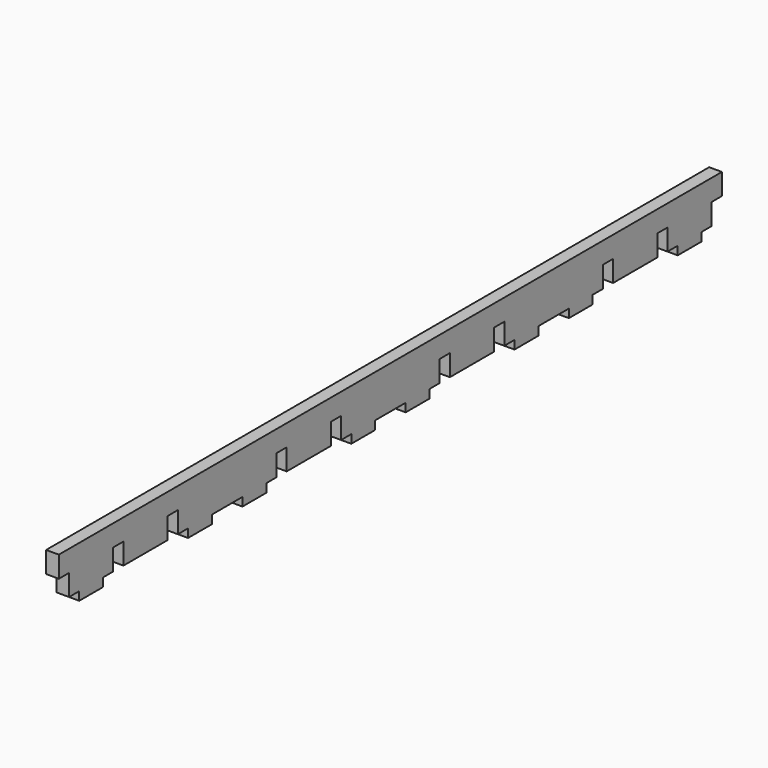
from build123d import *

# Parameters (mm, degrees)
F0_W     = 3
F0_H     = 5
F0_W_2   = 1.5
F1_DEPTH = 3


with BuildPart() as f1:
    # F0 (on Right) → F1 (new body)
    with BuildSketch(Plane.YZ):
        Polygon((1.5, 5), (1.5, 0), (4.5, 0), (4.5, -2), (11.5, -2), (11.5, 0), (14.5, 0), (14.5, 5), (14.5, 10), (11.5, 10), (1.5, 10), align=None)
        with Locations((16, 7.5)):
            Rectangle(F0_W, F0_H)
        Polygon((20.5, 10), (17.5, 10), (17.5, 5), (17.5, 0), (30.5, 0), (30.5, 5), (30.5, 10), align=None)
        with Locations((32, 7.5)):
            Rectangle(F0_W, F0_H)
        Polygon((33.5, 5), (33.5, 0), (36.5, 0), (36.5, -2), (43.5, -2), (43.5, 0), (48, 0), (52.5, 0), (52.5, -2), (59.5, -2), (59.5, 0), (62.5, 0), (62.5, 5), (62.5, 10), (33.5, 10), align=None)
        with Locations((64, 7.5)):
            Rectangle(F0_W, F0_H)
        Polygon((78.5, 10), (65.5, 10), (65.5, 5), (65.5, 0), (78.5, 0), (78.5, 5), align=None)
        with Locations((80, 7.5)):
            Rectangle(F0_W, F0_H)
        Polygon((110.5, 10), (81.5, 10), (81.5, 5), (81.5, 0), (84.5, 0), (84.5, -2), (91.5, -2), (91.5, 0), (96, 0), (100.5, 0), (100.5, -2), (107.5, -2), (107.5, 0), (110.5, 0), (110.5, 5), align=None)
        with Locations((112, 7.5)):
            Rectangle(F0_W, F0_H)
        Polygon((126.5, 10), (113.5, 10), (113.5, 5), (113.5, 0), (126.5, 0), (126.5, 5), align=None)
        with Locations((128, 7.5)):
            Rectangle(F0_W, F0_H)
        Polygon((158.5, 10), (129.5, 10), (129.5, 5), (129.5, 0), (132.5, 0), (132.5, -2), (139.5, -2), (139.5, 0), (144, 0), (148.5, 0), (148.5, -2), (155.5, -2), (155.5, 0), (158.5, 0), (158.5, 5), align=None)
        with Locations((160, 7.5)):
            Rectangle(F0_W, F0_H)
        Polygon((171.5, 10), (161.5, 10), (161.5, 5), (161.5, 0), (174.5, 0), (174.5, 5), (174.5, 10), align=None)
        with Locations((176, 7.5)):
            Rectangle(F0_W, F0_H)
        Polygon((180.5, 10), (177.5, 10), (177.5, 5), (177.5, 0), (180.5, 0), (180.5, -2), (187.5, -2), (187.5, 0), (190.5, 0), (190.5, 5), (190.5, 10), align=None)
        with Locations((0.75, 7.5)):
            Rectangle(F0_W_2, F0_H)
        with Locations((191.25, 7.5)):
            Rectangle(F0_W_2, F0_H)
        with Locations((192.75, 7.5)):
            Rectangle(F0_W_2, F0_H)
        with Locations((-0.75, 7.5)):
            Rectangle(F0_W_2, F0_H)
        with Locations((176, 7.5)):
            Rectangle(F0_W, F0_H)
        with Locations((16, 7.5)):
            Rectangle(F0_W, F0_H)
    extrude(amount=F1_DEPTH)


solid = f1.part
